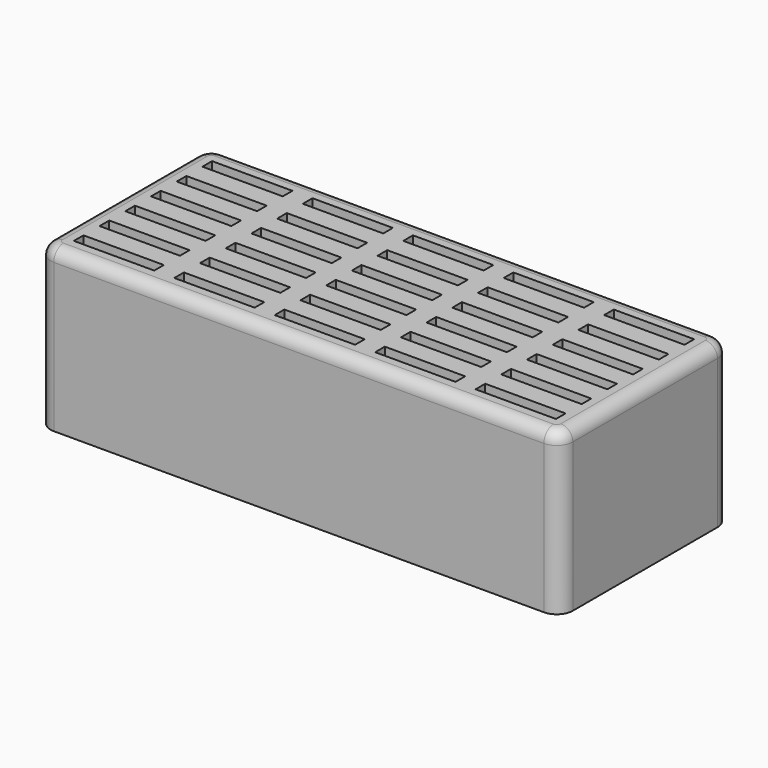
from build123d import *

# Parameters (mm, degrees)
F1_DEPTH = 40
F2_W     = 20
F2_H     = 3
F3_DEPTH = 25
F4_R     = 3


with BuildPart() as f1:
    # F0 (on Top) → F1 (new body)
    with BuildSketch(Plane.XY):
        with BuildLine():
            ThreePointArc((0, 4), (1.171573, 1.171573), (4, 0))
            Line((4, 0), (126, 0))
            ThreePointArc((126, 0), (128.828427, 1.171573), (130, 4))
            Line((130, 4), (130, 49))
            ThreePointArc((130, 49), (128.828427, 51.828427), (126, 53))
            Line((126, 53), (4, 53))
            ThreePointArc((4, 53), (1.171573, 51.828427), (0, 49))
            Line((0, 49), (0, 4))
        make_face()
    extrude(amount=F1_DEPTH)

    # F2 (on face) → F3 (cut)
    with BuildSketch(Plane.XY.offset(40)):
        with Locations((15, 46.5)):
            Rectangle(F2_W, F2_H)
        with Locations((15, 38.5)):
            Rectangle(F2_W, F2_H)
        with Locations((15, 30.5)):
            Rectangle(F2_W, F2_H)
        with Locations((15, 22.5)):
            Rectangle(F2_W, F2_H)
        with Locations((15, 14.5)):
            Rectangle(F2_W, F2_H)
        with Locations((15, 6.5)):
            Rectangle(F2_W, F2_H)
        with Locations((40, 46.5)):
            Rectangle(F2_W, F2_H)
        with Locations((40, 38.5)):
            Rectangle(F2_W, F2_H)
        with Locations((40, 30.5)):
            Rectangle(F2_W, F2_H)
        with Locations((40, 22.5)):
            Rectangle(F2_W, F2_H)
        with Locations((40, 14.5)):
            Rectangle(F2_W, F2_H)
        with Locations((40, 6.5)):
            Rectangle(F2_W, F2_H)
        with Locations((65, 46.5)):
            Rectangle(F2_W, F2_H)
        with Locations((65, 38.5)):
            Rectangle(F2_W, F2_H)
        with Locations((65, 30.5)):
            Rectangle(F2_W, F2_H)
        with Locations((65, 22.5)):
            Rectangle(F2_W, F2_H)
        with Locations((65, 14.5)):
            Rectangle(F2_W, F2_H)
        with Locations((65, 6.5)):
            Rectangle(F2_W, F2_H)
        with Locations((90, 46.5)):
            Rectangle(F2_W, F2_H)
        with Locations((90, 38.5)):
            Rectangle(F2_W, F2_H)
        with Locations((90, 30.5)):
            Rectangle(F2_W, F2_H)
        with Locations((90, 22.5)):
            Rectangle(F2_W, F2_H)
        with Locations((90, 14.5)):
            Rectangle(F2_W, F2_H)
        with Locations((90, 6.5)):
            Rectangle(F2_W, F2_H)
        with Locations((115, 46.5)):
            Rectangle(F2_W, F2_H)
        with Locations((115, 38.5)):
            Rectangle(F2_W, F2_H)
        with Locations((115, 30.5)):
            Rectangle(F2_W, F2_H)
        with Locations((115, 22.5)):
            Rectangle(F2_W, F2_H)
        with Locations((115, 14.5)):
            Rectangle(F2_W, F2_H)
        with Locations((115, 6.5)):
            Rectangle(F2_W, F2_H)
    extrude(amount=-F3_DEPTH, mode=Mode.SUBTRACT)

    # F4
    f4_edges = [f1.edges().sort_by_distance(p)[0] for p in [
        (65, 53, 40),
        (1.171573, 51.828427, 40),
    ]]
    fillet(f4_edges, radius=F4_R)


solid = f1.part
